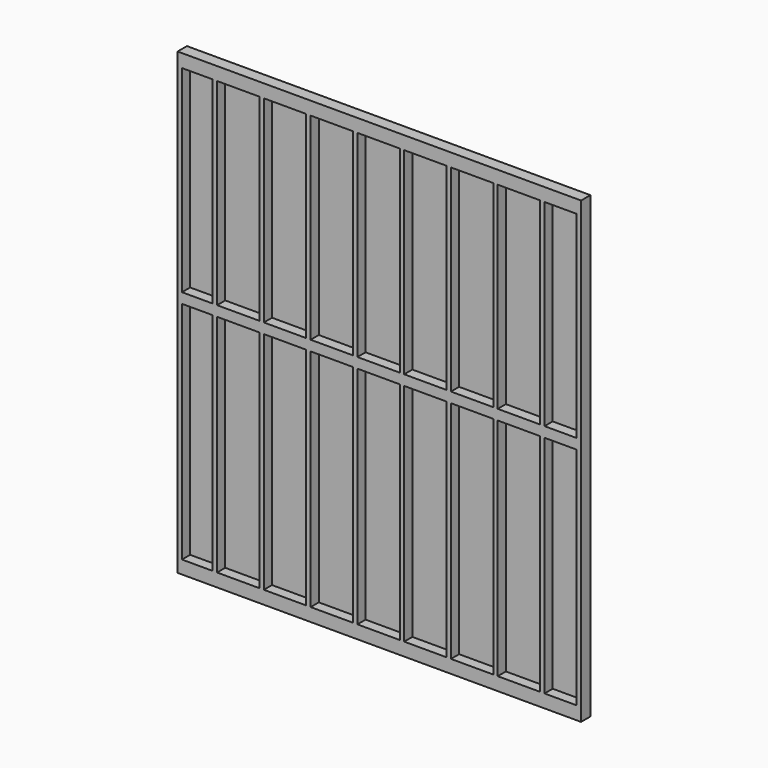
from build123d import *

# Parameters (mm, degrees)
F0_W      = 3505.2
F0_H      = 88.9
F1_DEPTH  = 38.1
F2_W      = 38.1
F2_H      = 88.9
F3_DEPTH  = 3759.2
F4_W      = 3505.2
F4_H      = 88.9
F5_DEPTH  = 76.2
F6_W      = 3505.2
F6_H      = 38.1
F7_DEPTH  = 88.9
F8_W      = 3505.2
F8_H      = 88.9
F9_DEPTH  = 76.2
F10_W     = 3505.2
F10_H     = 88.9
F11_DEPTH = 88.9
F12_W     = 3505.2
F12_H     = 3987.8
F13_DEPTH = 12.7


with BuildPart() as f1:
    # F0 (on Top) → F1 (new body)
    with BuildSketch(Plane.XY):
        Rectangle(F0_W, F0_H)
    extrude(amount=F1_DEPTH)

    # F2 (on face) → F3 (join)
    with BuildSketch(Plane.XY.offset(38.1)):
        with Locations((1733.55, 0)):
            Rectangle(F2_W, F2_H)
        with Locations((1416.05, 0)):
            Rectangle(F2_W, F2_H)
        with Locations((1009.65, 0)):
            Rectangle(F2_W, F2_H)
        with Locations((603.25, 0)):
            Rectangle(F2_W, F2_H)
        with Locations((196.85, 0)):
            Rectangle(F2_W, F2_H)
        with Locations((-209.55, 0)):
            Rectangle(F2_W, F2_H)
        with Locations((-615.95, 0)):
            Rectangle(F2_W, F2_H)
        with Locations((-1022.35, 0)):
            Rectangle(F2_W, F2_H)
        with Locations((-1733.55, 0)):
            Rectangle(F2_W, F2_H)
        with Locations((-1428.75, 0)):
            Rectangle(F2_W, F2_H)
    extrude(amount=F3_DEPTH)

    # F4 (on face) → F5 (join)
    with BuildSketch(Plane(origin=(0, 0, 0), x_dir=(1, 0, 0), z_dir=(0, 0, -1))):
        Rectangle(F4_W, F4_H)
    extrude(amount=F5_DEPTH)

    # F6 (on face) → F7 (join)
    with BuildSketch(Plane(origin=(0, 44.45, 0), x_dir=(-1, 0, 0), z_dir=(0, 1, 0))):
        with Locations((0, 3816.35)):
            Rectangle(F6_W, F6_H)
    extrude(amount=-F7_DEPTH)

    # F8 (on face) → F9 (join)
    with BuildSketch(Plane.XY.offset(3835.4)):
        Rectangle(F8_W, F8_H)
    extrude(amount=F9_DEPTH)

    # F10 (on face) → F11 (join)
    with BuildSketch(Plane.XZ.offset(44.45)):
        with Locations((0, 2038.35)):
            Rectangle(F10_W, F10_H)
    extrude(amount=-F11_DEPTH)

    # F12 (on face) → F13 (join)
    with BuildSketch(Plane(origin=(0, 44.45, 0), x_dir=(-1, 0, 0), z_dir=(0, 1, 0))):
        with Locations((0, 1917.7)):
            Rectangle(F12_W, F12_H)
    extrude(amount=F13_DEPTH)


solid = f1.part
